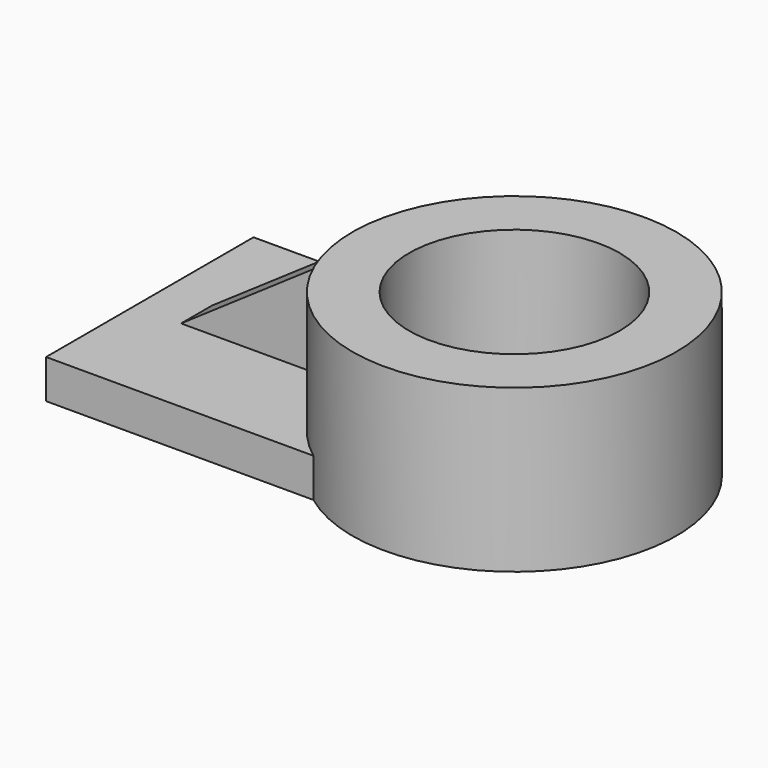
from build123d import *

# Parameters (mm, degrees)
F0_R          = 32.5
F1_DEPTH      = 50
F2_DEPTH      = 12
F4_DEPTH      = 6
F4_DEPTH_BACK = 6


with BuildPart() as f1:
    # F0 (on Top) → F1 (new body)
    with BuildSketch(Plane.XY):
        with BuildLine():
            ThreePointArc((82.5, 0), (54.860679775, 44.72135955), (2.5, 40))
            ThreePointArc((2.5, 40), (-17.5, 0), (2.5, -40))
            ThreePointArc((2.5, -40), (54.860679775, -44.72135955), (82.5, 0))
        make_face()
        with Locations((32.5, 0)):
            Circle(F0_R, mode=Mode.SUBTRACT)
    extrude(amount=F1_DEPTH)

    # F0 (on Top) → F2 (join)
    with BuildSketch(Plane.XY):
        with BuildLine():
            Line((2.5, 40), (-80, 40))
            Line((-80, 40), (-80, -40))
            Line((-80, -40), (2.5, -40))
            ThreePointArc((2.5, -40), (-17.5, 0), (2.5, 40))
        make_face()
        with BuildLine():
            ThreePointArc((82.5, 0), (54.860679775, 44.72135955), (2.5, 40))
            ThreePointArc((2.5, 40), (-17.5, 0), (2.5, -40))
            ThreePointArc((2.5, -40), (54.860679775, -44.72135955), (82.5, 0))
        make_face()
        with Locations((32.5, 0)):
            Circle(F0_R, mode=Mode.SUBTRACT)
    extrude(amount=F2_DEPTH)

    # F3 (on Front) → F4 (join, two sides)
    with BuildSketch(Plane.XZ) as f4_sk:
        Polygon((-15.4150407761, 46.4158691466), (-67.7281171784, 10.5064402626), (-15.4150407761, 10.5064402626), align=None)
    extrude(amount=-F4_DEPTH)
    extrude(f4_sk.sketch, amount=F4_DEPTH_BACK)


solid = f1.part
